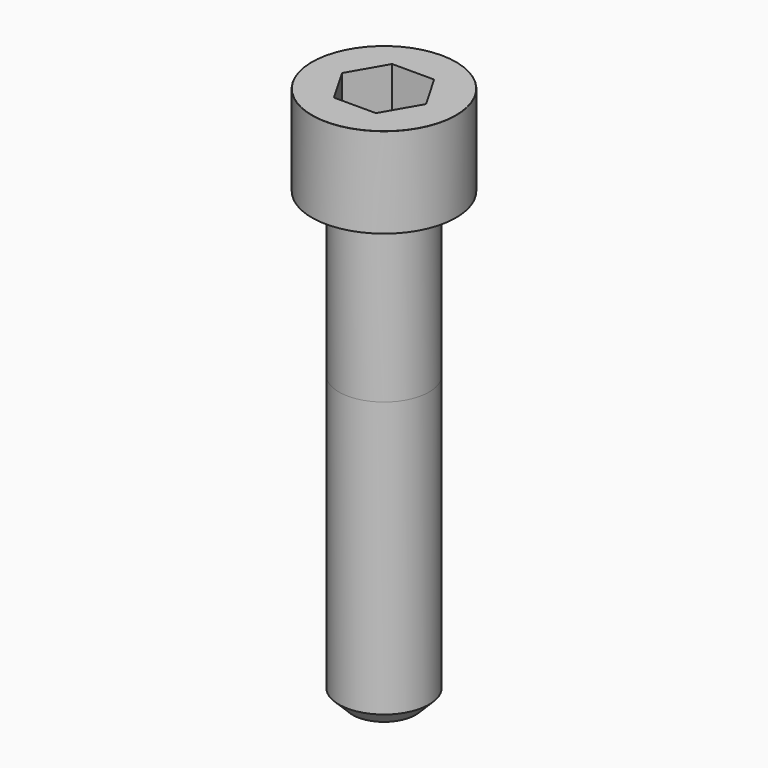
from build123d import *

# Parameters (mm, degrees)
POCKET_DEPTH = 8.07


with BuildPart() as part:
    # Sketch → Revolve (revolve)
    with BuildSketch(Plane.YZ):
        with BuildLine():
            Line((4.999, 0), (8, 0))
            Line((8, 0), (8, 9.97229))
            ThreePointArc((8, 9.97229), (7.991884, 9.991884), (7.97229, 10))
            Line((7.97229, 10), (0, 10))
            Line((0, -50), (0, 10))
            Line((3.5, -50), (0, -50))
            Line((5, -48.5), (3.5, -50))
            Line((5, -18), (5, -48.5))
            Line((4.999, 0), (5, -18))
        make_face()
    revolve(axis=Axis((0, 0, 0), (0, 0, 1)))

    # Sketch001 → Pocket (cut)
    with BuildSketch(Plane.XY.offset(10)):
        Polygon((4.659217, 0), (2.329608, 4.035), (-2.329608, 4.035), (-4.659217, 0), (-2.329608, -4.035), (2.329608, -4.035), align=None)
    extrude(amount=-POCKET_DEPTH, mode=Mode.SUBTRACT)


solid = part.part
